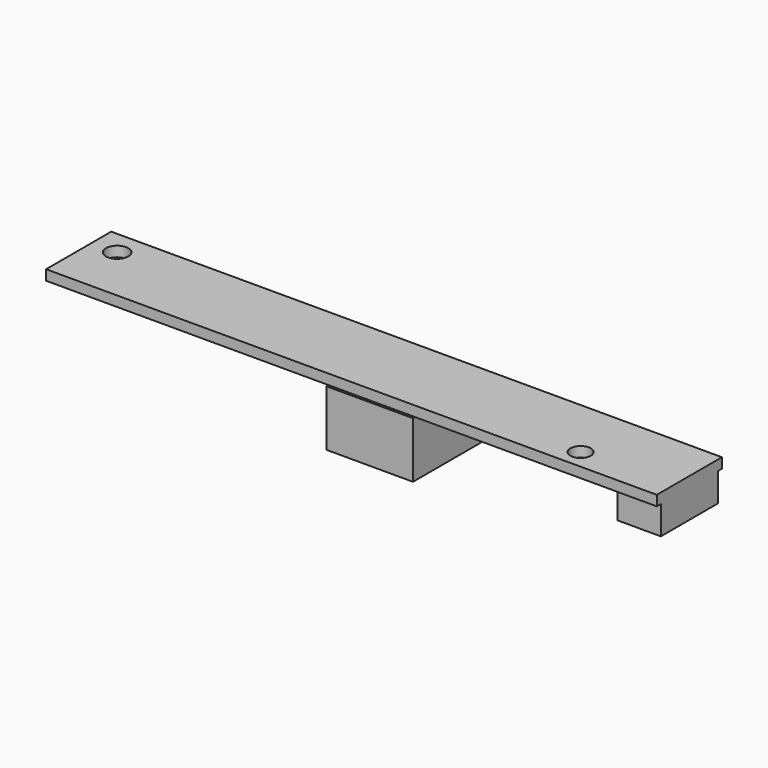
from build123d import *

# Parameters (mm, degrees)
SKETCH_W        = 8.5
SKETCH_H        = 8.5
PAD_DEPTH       = 5.5
SKETCH001_W     = 60
SKETCH001_H     = 8
PAD001_DEPTH    = 1
SKETCH002_R     = 1
SKETCH002_R_2   = 1.1
POCKET_DEPTH    = 6.501
SKETCH003_W     = 4.25
SKETCH003_H     = 7
PAD002_DEPTH    = 2.8
SKETCH004_R     = 1.5
POCKET001_DEPTH = 1


with BuildPart() as part:
    # Sketch → Pad (new body)
    with BuildSketch(Plane.XY):
        Rectangle(SKETCH_W, SKETCH_H)
    extrude(amount=PAD_DEPTH)

    # Sketch001 → Pad001 (new body)
    with BuildSketch(Plane.XY.offset(5.5)):
        with Locations((-2, 0)):
            Rectangle(SKETCH001_W, SKETCH001_H)
    extrude(amount=PAD001_DEPTH)

    # Sketch002 → Pocket (cut, through all)
    with BuildSketch(Plane.XY.offset(6.5)):
        with Locations((19, -2.1)):
            Circle(SKETCH002_R)
        with Locations((-29.5, 1.6)):
            Circle(SKETCH002_R_2)
    extrude(amount=-POCKET_DEPTH, mode=Mode.SUBTRACT)

    # Sketch003 → Pad002 (new body)
    with BuildSketch(Plane(origin=(0, 0, 5.5), x_dir=(1, 0, 0), z_dir=(0, 0, -1))):
        with Locations((25.875, 0)):
            Rectangle(SKETCH003_W, SKETCH003_H)
    extrude(amount=PAD002_DEPTH)

    # Sketch004 → Pocket001 (cut)
    with BuildSketch(Plane(origin=(0, 0, 0), x_dir=(1, 0, 0), z_dir=(0, 0, -1))):
        Circle(SKETCH004_R)
    extrude(amount=-POCKET001_DEPTH, mode=Mode.SUBTRACT)


solid = part.part
